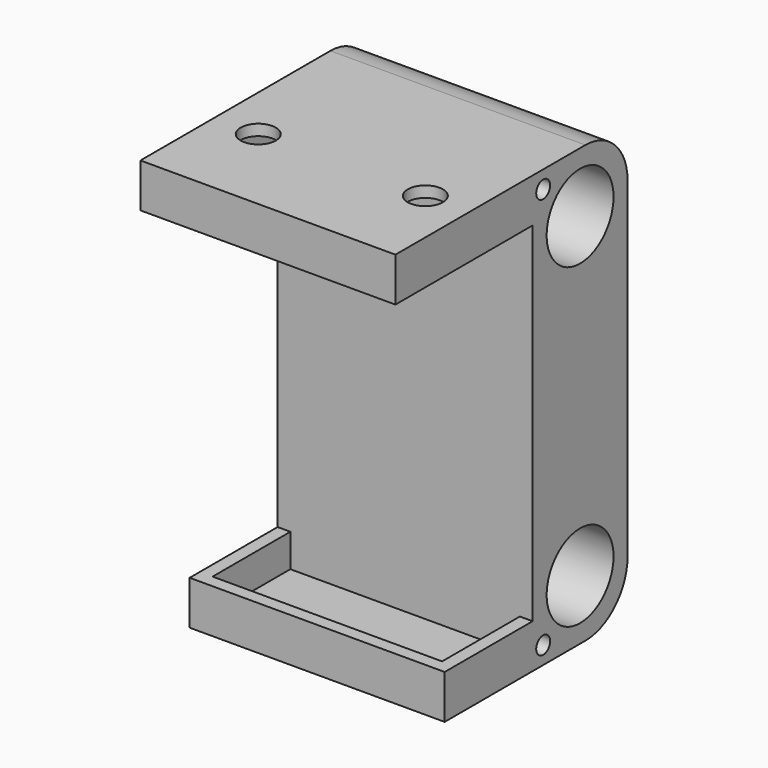
from build123d import *

# Parameters (mm, degrees)
SKETCH_R        = 9.5
PAD_DEPTH       = 29
SKETCH001_W     = 22.1
SKETCH001_H     = 52.2
POCKET_DEPTH    = 7.5
SKETCH002_W     = 36.1
SKETCH002_H     = 52.2
POCKET001_DEPTH = 7.5
SKETCH003_R     = 4
POCKET002_DEPTH = 364.358997
SKETCH006_R     = 1.975
POCKET003_DEPTH = 323.108997


with BuildPart() as part:
    # Sketch → Pad (new body, symmetric)
    with BuildSketch(Plane.YZ):
        with BuildLine():
            Line((13.5, 37.625), (13.5, -37.625))
            ThreePointArc((1.5, -49.625), (9.985281, -46.110281), (13.5, -37.625))
            Line((1.5, -49.625), (-38.5, -49.625))
            Line((-38.5, -49.625), (-38.5, -39.625))
            Line((-38.5, -39.625), (-13.5, -39.625))
            Line((-13.5, -39.625), (-13.5, 39.625))
            Line((-52.5, 39.625), (-13.5, 39.625))
            Line((-52.5, 49.625), (-52.5, 39.625))
            Line((1.5, 49.625), (-52.5, 49.625))
            ThreePointArc((13.5, 37.625), (9.985281, 46.110281), (1.5, 49.625))
        make_face()
        with Locations((0, 36)):
            Circle(SKETCH_R, mode=Mode.SUBTRACT)
        with Locations((0, -36)):
            Circle(SKETCH_R, mode=Mode.SUBTRACT)
    extrude(amount=PAD_DEPTH, both=True)

    # Sketch001 (on Face6 of Pad) → Pocket (cut)
    with BuildSketch(Plane(origin=(0, 0, -39.625), x_dir=(0, -1, 0), z_dir=(0, 0, 1))):
        with Locations((24.55, 0)):
            Rectangle(SKETCH001_W, SKETCH001_H)
    extrude(amount=-POCKET_DEPTH, mode=Mode.SUBTRACT)

    # Sketch002 (on Face11 of Pocket) → Pocket001 (cut)
    with BuildSketch(Plane.YX.offset(-39.625)):
        with Locations((-31.55, 0)):
            Rectangle(SKETCH002_W, SKETCH002_H)
    extrude(amount=-POCKET001_DEPTH, mode=Mode.SUBTRACT)

    # Sketch003 (on Face8 of Pocket001) → Pocket002 (cut, through all)
    with BuildSketch(Plane.YX.offset(49.625)):
        with Locations((-31.5, 19)):
            Circle(SKETCH003_R)
    pocket002 = extrude(amount=-POCKET002_DEPTH, mode=Mode.SUBTRACT)

    # Mirrored: Pocket002 across YZ
    add(pocket002.mirror(Plane.YZ), mode=Mode.SUBTRACT)

    # Sketch006 (on Face5 of Mirrored) → Pocket003 (cut, through all)
    with BuildSketch(Plane.YZ.offset(29)):
        with Locations((-10.5, 45.625)):
            Circle(SKETCH006_R)
    pocket003 = extrude(amount=-POCKET003_DEPTH, mode=Mode.SUBTRACT)

    # Mirrored001: Pocket003 across XY
    add(pocket003.mirror(Plane.XY), mode=Mode.SUBTRACT)


solid = part.part
